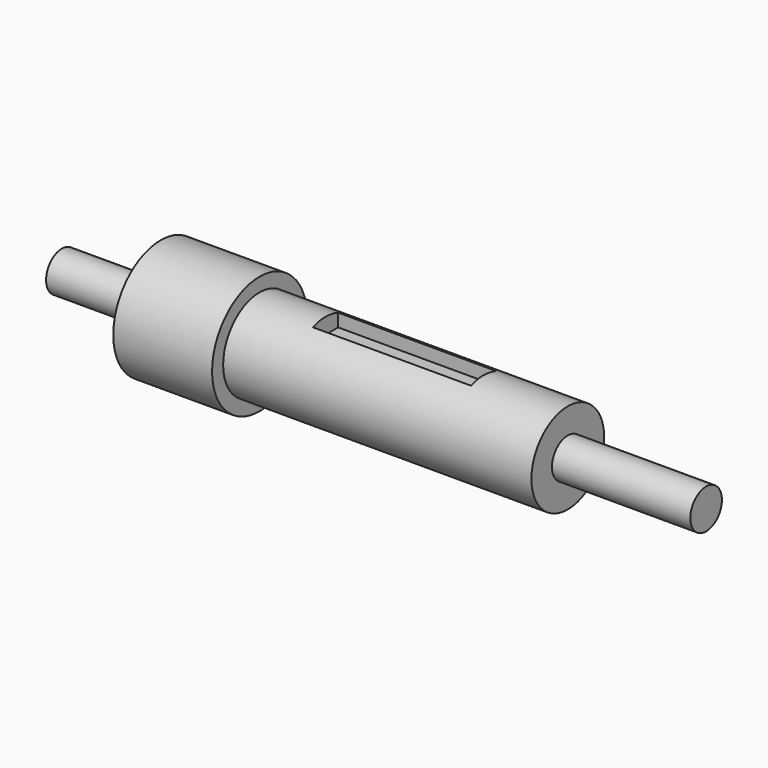
from build123d import *

# Parameters (mm, degrees)
F0_R      = 5
F1_DEPTH  = 35
F2_R      = 11.5
F3_DEPTH  = 78
F4_R      = 15
F5_DEPTH  = 25
F6_R      = 5
F7_DEPTH  = 25
F9_W      = 40
F9_H      = 8
F10_DEPTH = 4


with BuildPart() as f1:
    # F0 (on Right) → F1 (new body)
    with BuildSketch(Plane.YZ):
        Circle(F0_R)
    extrude(amount=F1_DEPTH)

    # F2 (on face) → F3 (join)
    with BuildSketch(Plane(origin=(0, 0, 0), x_dir=(0, -1, 0), z_dir=(-1, 0, 0))):
        Circle(F2_R)
    extrude(amount=F3_DEPTH)

    # F4 (on face) → F5 (join)
    with BuildSketch(Plane(origin=(-78, 0, 0), x_dir=(0, -1, 0), z_dir=(-1, 0, 0))):
        Circle(F4_R)
    extrude(amount=F5_DEPTH)

    # F6 (on face) → F7 (join)
    with BuildSketch(Plane(origin=(-103, 0, 0), x_dir=(0, -1, 0), z_dir=(-1, 0, 0))):
        Circle(F6_R)
    extrude(amount=F7_DEPTH)

    # F9 (on offset) → F10 (cut)
    with BuildSketch(Plane.XY.offset(11.5)):
        with Locations((-41.2988585503, 0)):
            Rectangle(F9_W, F9_H)
    extrude(amount=-F10_DEPTH, mode=Mode.SUBTRACT)


solid = f1.part
